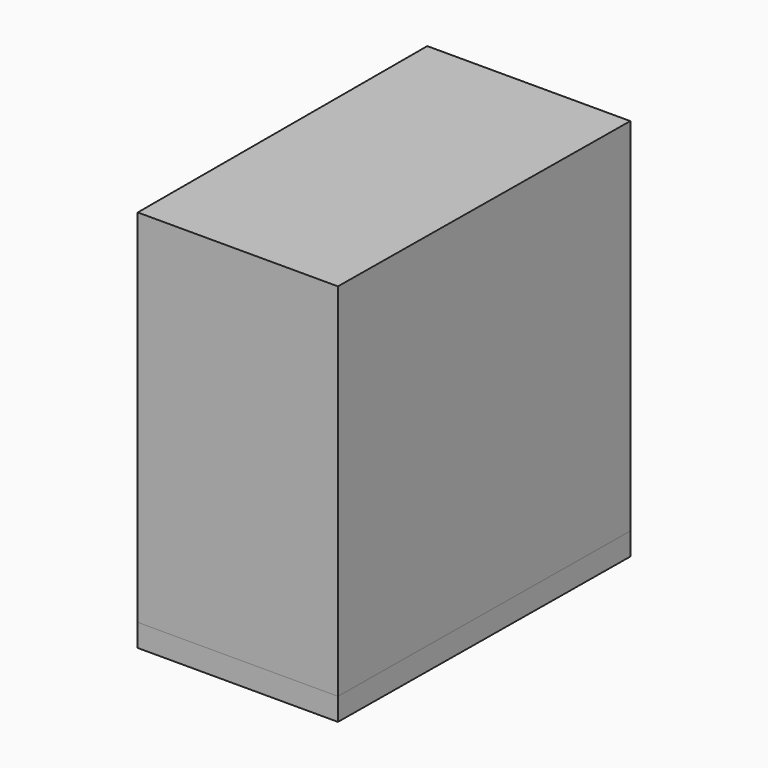
from build123d import *

# Parameters (mm, degrees)
F1_DEPTH = 640
F2_DEPTH = 40


with BuildPart() as f1:
    # F0 (on Top) → F1 (new body)
    with BuildSketch(Plane.XY):
        Polygon((126.249286, 288.882322), (-233.750714, 288.882322), (-235.174326, -351.116095), (119.825673, -351.085441), align=None)
        Polygon((-215.129784, -331.114364), (-213.795153, 268.882322), (106.04753, 268.882322), (100.025397, -331.08715), align=None, mode=Mode.SUBTRACT)
        Polygon((106.04753, 268.882322), (-213.795153, 268.882322), (-215.129784, -331.114364), (100.025397, -331.08715), align=None)
    extrude(amount=F1_DEPTH)


with BuildPart() as f2:
    # F0 (on Top) → F2 (new body)
    with BuildSketch(Plane.XY):
        Polygon((126.249286, 288.882322), (-233.750714, 288.882322), (-235.174326, -351.116095), (119.825673, -351.085441), align=None)
        Polygon((-215.129784, -331.114364), (-213.795153, 268.882322), (106.04753, 268.882322), (100.025397, -331.08715), align=None, mode=Mode.SUBTRACT)
    extrude(amount=-F2_DEPTH)


solid = Compound([f1.part, f2.part])
